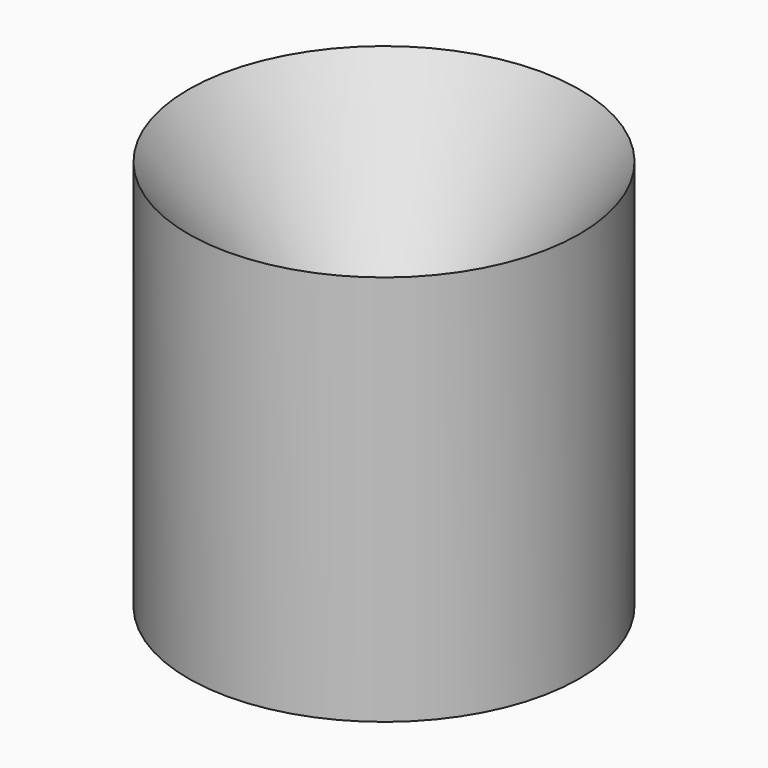
from build123d import *


with BuildPart() as f1:
    # F0 (on Front) → F1 (revolve)
    with BuildSketch(Plane.XZ):
        with BuildLine():
            Line((0, 6.35), (0, 0))
            Line((0, 0), (50.8, 0))
            Line((50.8, 0), (50.8, 101.6))
            Line((50.8, 101.6), (0, 29.050081))
            Line((0, 29.050081), (0, 21.717098))
            ThreePointArc((0, 21.717098), (2.920268, 23.11225), (5.201615, 25.407871))
            Line((5.201615, 25.407871), (44.45, 81.460373))
            Line((44.45, 81.460373), (44.45, 6.35))
            Line((44.45, 6.35), (0, 6.35))
        make_face()
    revolve(axis=Axis((0, 0, 14.525041), (0, 0, -1)))


solid = f1.part
